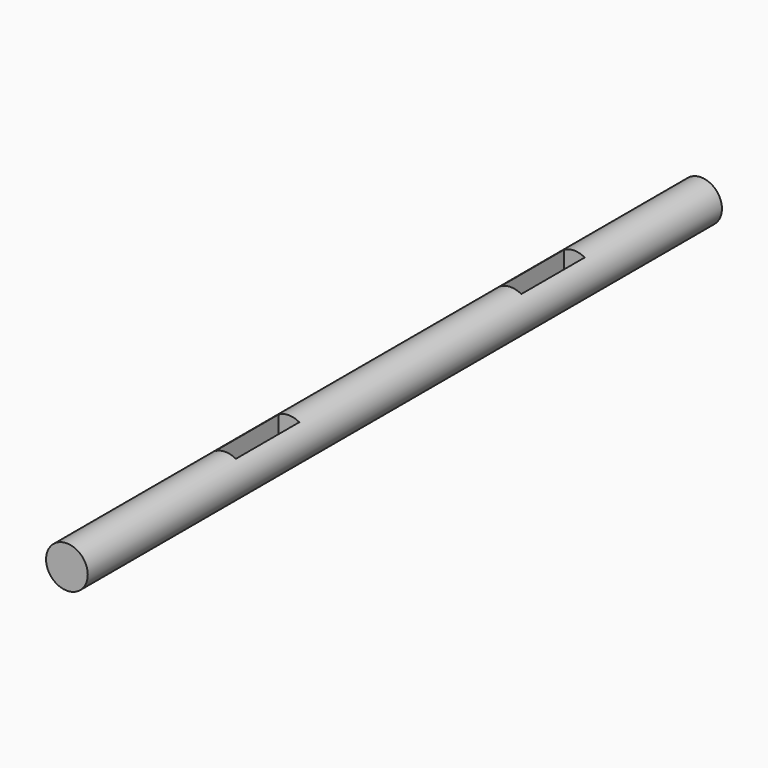
from build123d import *

# Parameters (mm, degrees)
F0_R     = 5
F1_DEPTH = 95
F3_W     = 2.5
F3_H     = 19
F4_DEPTH = 5


with BuildPart() as f1:
    # F0 (on Front) → F1 (new body, symmetric)
    with BuildSketch(Plane.XZ):
        Circle(F0_R)
    extrude(amount=F1_DEPTH, both=True)

    # F3 (on offset) → F4 (cut)
    with BuildSketch(Plane.XY.offset(5)):
        with Locations((1.25, -38)):
            Rectangle(F3_W, F3_H)
        with Locations((-1.25, -38)):
            Rectangle(F3_W, F3_H)
        with Locations((-1.25, 47.5)):
            Rectangle(F3_W, F3_H)
        with Locations((1.25, 47.5)):
            Rectangle(F3_W, F3_H)
    extrude(amount=-F4_DEPTH, mode=Mode.SUBTRACT)


solid = f1.part
